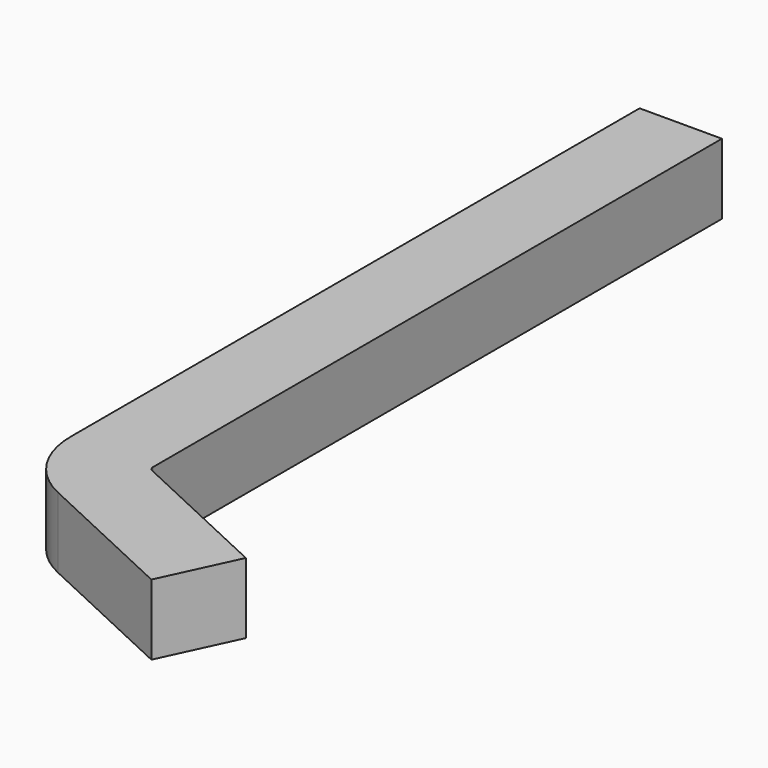
from build123d import *

# Parameters (mm, degrees)
F0_W = 7
F0_H = 6


with BuildPart() as f2:
    # F2: sweep along a path in F1
    with BuildLine(Plane.XY) as f2_path:
        Line((0, 0), (0, -60.457104))
        ThreePointArc((0, -60.457104), (0.626434, -62.606303), (2.309527, -64.082335))
        Line((2.309527, -64.082335), (15, -70))
    # F0 (on Front) → F2 (sweep)
    with BuildSketch(Plane.XZ):
        Rectangle(F0_W, F0_H)
    sweep(path=f2_path.line)


solid = f2.part
